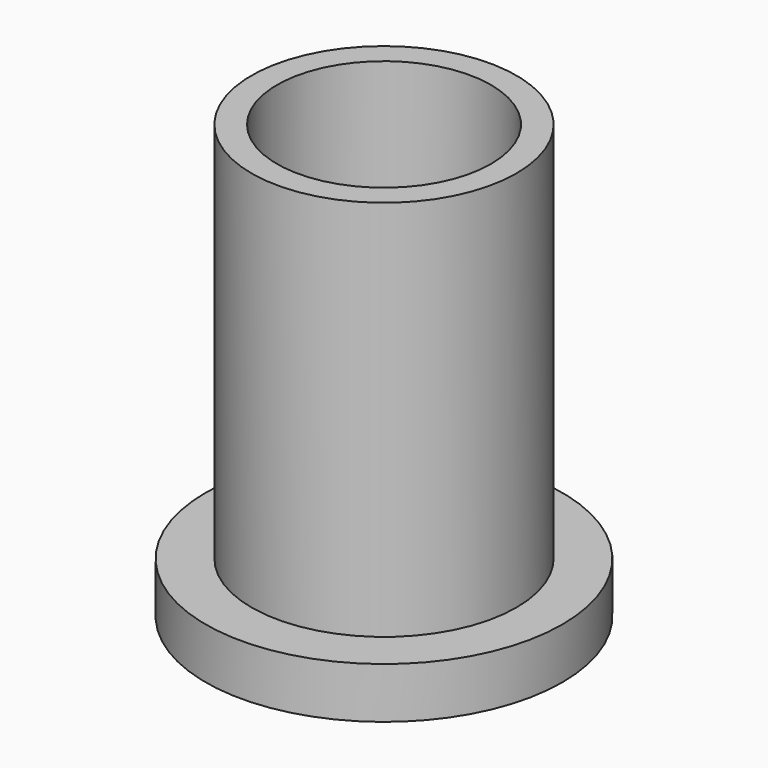
from build123d import *

# Parameters (mm, degrees)
F0_R     = 3.5
F1_DEPTH = 0.5
F2_R     = 2.6
F2_R_2   = 2.1
F3_DEPTH = 7.5


with BuildPart() as f1:
    # F0 (on Top) → F1 (new body, symmetric)
    with BuildSketch(Plane.XY):
        Circle(F0_R)
    extrude(amount=F1_DEPTH, both=True)

    # F2 (on face) → F3 (join)
    with BuildSketch(Plane.XY.offset(0.5)):
        Circle(F2_R)
        Circle(F2_R_2, mode=Mode.SUBTRACT)
    extrude(amount=F3_DEPTH)


solid = f1.part
